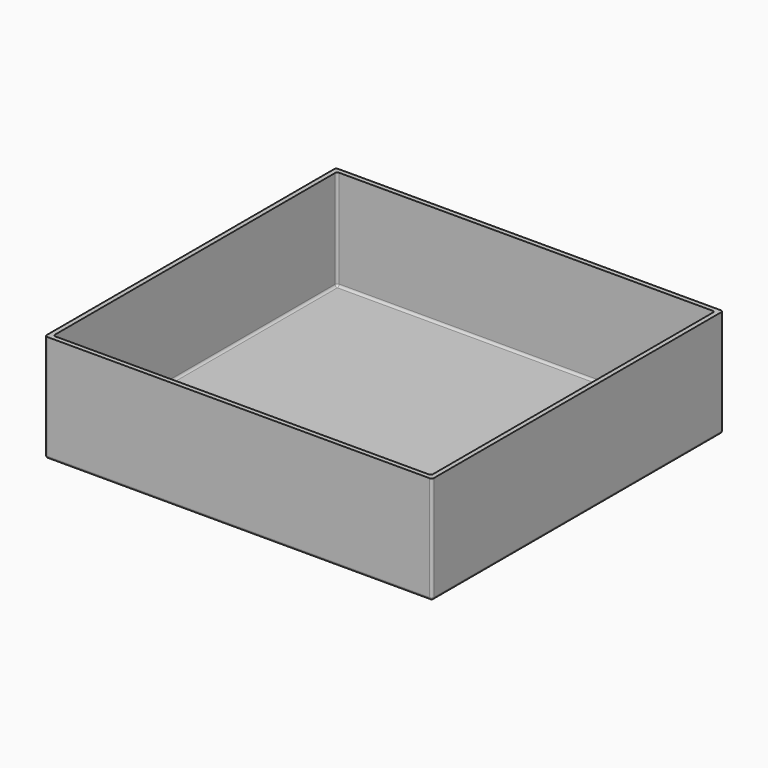
from build123d import *

# Parameters (mm, degrees)
F0_W     = 83
F0_H     = 78
F0_W_2   = 81
F0_H_2   = 76
F1_DEPTH = 23
F2_DEPTH = 1.5
F3_R     = 0.5
F4_R     = 0.5


with BuildPart() as f1:
    # F0 (on Top) → F1 (new body)
    with BuildSketch(Plane.XY):
        Rectangle(F0_W, F0_H)
        Rectangle(F0_W_2, F0_H_2, mode=Mode.SUBTRACT)
    extrude(amount=F1_DEPTH)

    # F0 (on Top) → F2 (join)
    with BuildSketch(Plane.XY):
        Rectangle(F0_W_2, F0_H_2)
    extrude(amount=F2_DEPTH)

    # F3
    f3_edges = [f1.edges().sort_by_distance(p)[0] for p in [
        (0, -39, 0),
        (-41.5, 0, 0),
        (0, 39, 0),
        (41.5, 0, 0),
        (-41.5, -39, 11.5),
        (41.5, -39, 11.5),
        (-41.5, 39, 11.5),
        (41.5, 39, 11.5),
    ]]
    fillet(f3_edges, radius=F3_R)

    # F4
    f4_edges = [f1.edges().sort_by_distance(p)[0] for p in [
        (40.5, 38, 12.25),
        (0, 38, 1.5),
        (40.5, 0, 1.5),
        (-40.5, 38, 12.25),
        (-40.5, 0, 1.5),
        (40.5, -38, 12.25),
        (0, -38, 1.5),
        (-40.5, -38, 12.25),
    ]]
    fillet(f4_edges, radius=F4_R)


solid = f1.part
